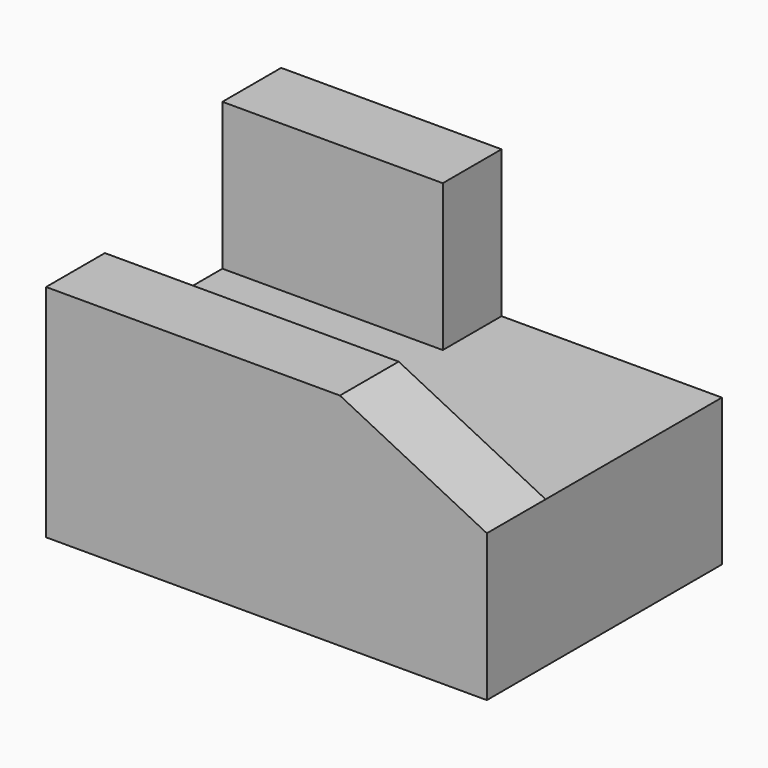
from build123d import *

# Parameters (mm, degrees)
F0_W      = 60
F0_H      = 40
F1_DEPTH  = 40
F4_DEPTH  = 20
F3_W      = 60
F3_H      = 10
F5_DEPTH  = 10
F6_W      = 60
F6_H      = 10
F7_DEPTH  = 10
F8_W      = 20
F8_H      = 10
F9_DEPTH  = 10
F11_DEPTH = 10


with BuildPart() as f1:
    # F0 (on Top) → F1 (new body)
    with BuildSketch(Plane.XY):
        with Locations((30, 20)):
            Rectangle(F0_W, F0_H)
    extrude(amount=F1_DEPTH)

    # F2 (on face) → F4 (cut)
    with BuildSketch(Plane.XY.offset(40)):
        Polygon((60, 40), (30, 40), (30, 30), (0, 30), (0, 0), (60, 0), align=None)
    extrude(amount=-F4_DEPTH, mode=Mode.SUBTRACT)

    # F3 (on face) → F5 (cut)
    with BuildSketch(Plane.XY.offset(40)):
        with Locations((30, 5)):
            Rectangle(F3_W, F3_H)
    extrude(amount=F5_DEPTH, mode=Mode.SUBTRACT)

    # F6 (on face) → F7 (join)
    with BuildSketch(Plane.XY.offset(20)):
        with Locations((30, 5)):
            Rectangle(F6_W, F6_H)
    extrude(amount=F7_DEPTH)

    # F8 (on face) → F9 (cut)
    with BuildSketch(Plane.XY.offset(30)):
        with Locations((50, 5)):
            Rectangle(F8_W, F8_H)
    extrude(amount=-F9_DEPTH, mode=Mode.SUBTRACT)

    # F10 (on face) → F11 (join)
    with BuildSketch(Plane.XZ):
        Polygon((60, 20), (40, 30), (40, 20), align=None)
    extrude(amount=-F11_DEPTH)


solid = f1.part
